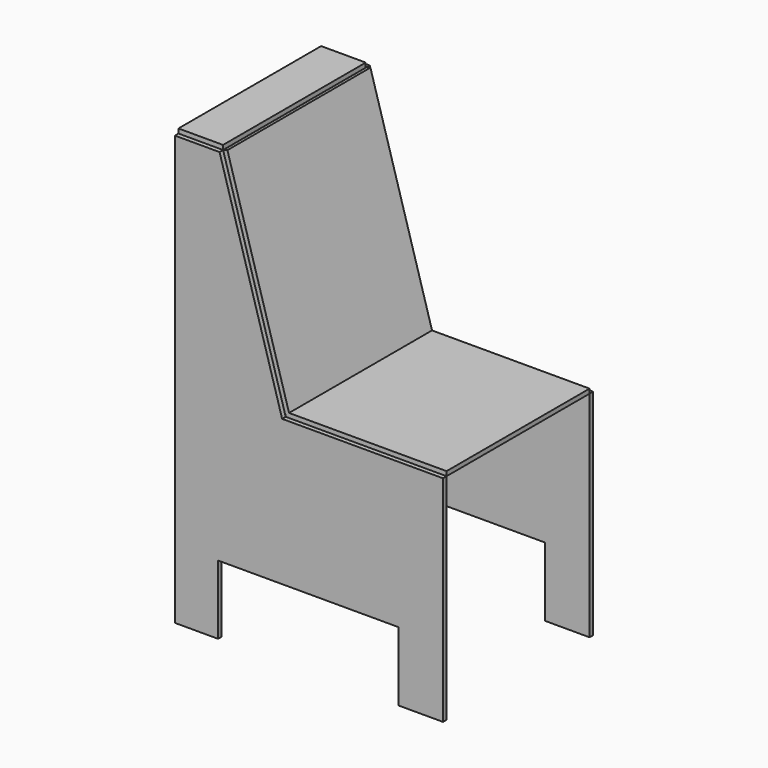
from build123d import *

# Parameters (mm, degrees)
F1_DEPTH  = 12.7
F2_W      = 512.5408172607
F2_H      = 195.9914970187
F3_DEPTH  = 12.701
F7_DEPTH  = 12.7
F8_W      = 457.2
F8_H      = 508
F9_DEPTH  = 12.7
F10_W     = 508
F10_H     = 628.7919113753
F11_DEPTH = 12.7
F12_W     = 126.7874948263
F12_H     = 506.9180233097
F13_DEPTH = 12.7


with BuildPart() as f1:
    # F0 (on Front) → F1 (new body)
    with BuildSketch(Plane.XZ):
        Polygon((225.4775163651, 576.7491500112), (98.4775163651, 576.7491500112), (98.4775163651, -642.4508499888), (860.4775163651, -642.4508499888), (860.4775163651, -32.8508499888), (403.2775163651, -32.8508499888), align=None)
    extrude(amount=-F1_DEPTH)

    # F2 (on face) → F3 (cut, through all)
    with BuildSketch(Plane.XZ):
        with Locations((477.4276018143, -544.4551014795)):
            Rectangle(F2_W, F2_H)
    extrude(amount=-F3_DEPTH, mode=Mode.SUBTRACT)



with BuildPart() as f7:
    # F6 (on offset) → F7 (new body)
    with BuildSketch(Plane.XZ.offset(508)):
        Polygon((403.2775163651, -32.8508499888), (225.4775163651, 576.7491500112), (98.4775163651, 576.7491500112), (98.4775163651, -642.4508499888), (221.1571931839, -642.4508499888), (221.1571931839, -446.4593529701), (733.6980104446, -446.4593529701), (733.6980104446, -642.4508499888), (860.4775163651, -642.4508499888), (860.4775163651, -32.8508499888), align=None)
    extrude(amount=F7_DEPTH)


with BuildPart() as f9:
    # F8 (on face) → F9 (new body)
    with BuildSketch(Plane.XY.offset(-32.8508499888)):
        with Locations((631.8775163651, -254)):
            Rectangle(F8_W, F8_H)
    extrude(amount=F9_DEPTH)


with BuildPart() as f1_1:
    add(f1.part)

    add(f7.part)  # F11 merges F7

    add(f9.part)  # F11 merges F9
    # F10 (on face) → F11 (join)
    with BuildSketch(Plane(origin=(362.830250605, 0, 105.8254897598), x_dir=(0, 1, 0), z_dir=(0.96, 0, 0.28))):
        with Locations((-254, 176.1495237409)):
            Rectangle(F10_W, F10_H)
    extrude(amount=F11_DEPTH)


with BuildPart() as f13:
    # F12 (on face) → F13 (new body)
    with BuildSketch(Plane.XY.offset(576.7491500112)):
        with Locations((161.8712637782, -254.5409883452)):
            Rectangle(F12_W, F12_H)
    extrude(amount=F13_DEPTH)


solid = Compound([f1_1.part, f13.part])
